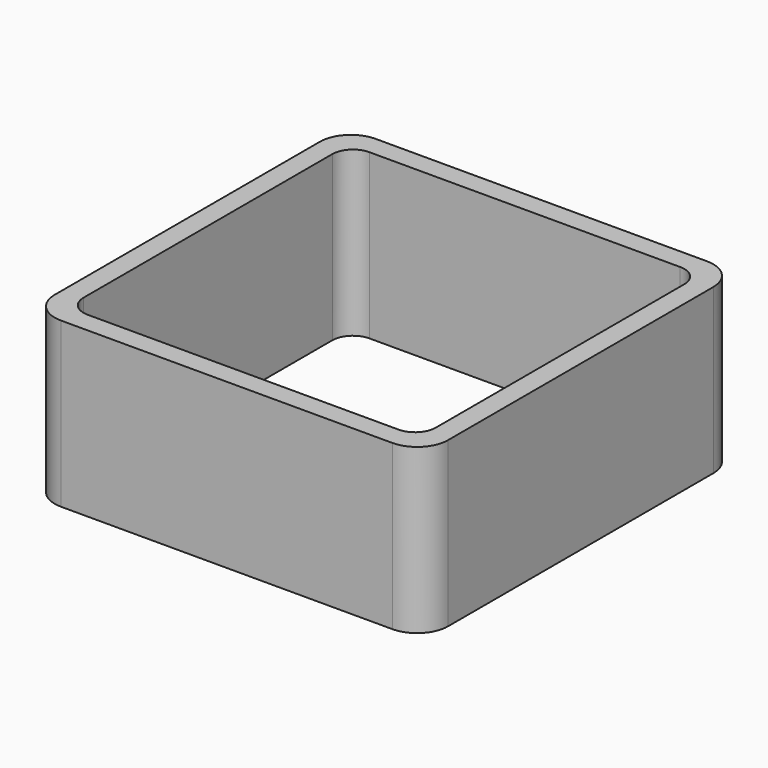
from build123d import *

# Parameters (mm, degrees)
EXTRUDE_DEPTH = 50


with BuildPart() as part:
    # Sketch → Extrude (new body)
    with BuildSketch(Plane.XY):
        with BuildLine():
            Line((-50.55, 60), (50.55, 60))
            ThreePointArc((60, 50.55), (57.232159, 57.232159), (50.55, 60))
            Line((60, 50.55), (60, -50.55))
            ThreePointArc((50.55, -60), (57.232159, -57.232159), (60, -50.55))
            Line((50.55, -60), (-50.55, -60))
            ThreePointArc((-60, -50.55), (-57.232159, -57.232159), (-50.55, -60))
            Line((-60, -50.55), (-60, 50.55))
            ThreePointArc((-50.55, 60), (-57.232159, 57.232159), (-60, 50.55))
        make_face()
        with BuildLine():
            Line((-47.4, 53.7), (47.4, 53.7))
            ThreePointArc((53.7, 47.4), (51.854773, 51.854773), (47.4, 53.7))
            Line((53.7, 47.4), (53.7, -47.4))
            ThreePointArc((47.4, -53.7), (51.854773, -51.854773), (53.7, -47.4))
            Line((47.4, -53.7), (-47.4, -53.7))
            ThreePointArc((-53.7, -47.4), (-51.854773, -51.854773), (-47.4, -53.7))
            Line((-53.7, -47.4), (-53.7, 47.4))
            ThreePointArc((-47.4, 53.7), (-51.854773, 51.854773), (-53.7, 47.4))
        make_face(mode=Mode.SUBTRACT)
    extrude(amount=EXTRUDE_DEPTH)


solid = part.part
